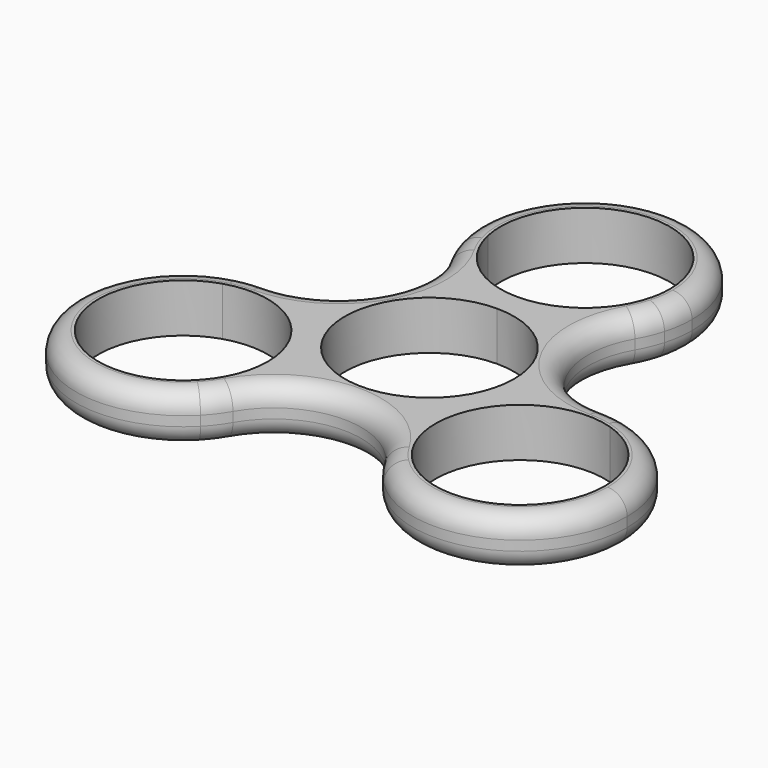
from build123d import *

# Parameters (mm, degrees)
F1_DEPTH = 6.35
F2_R     = 2.54


with BuildPart() as f1:
    # F0 (on Top) → F1 (new body)
    with BuildSketch(Plane.XY):
        with BuildLine():
            ThreePointArc((12.098375, 18.415), (6.985, 13.301625), (0, 11.43))
            ThreePointArc((0, 11.43), (-6.985, 13.301625), (-12.098375, 18.415))
            ThreePointArc((-12.098375, 18.415), (-12.098375, 6.985), (-21.997045, 1.27))
            ThreePointArc((-21.997045, 1.27), (-12.118764, -2.821718), (-8.027045, -12.7))
            ThreePointArc((-8.027045, -12.7), (-8.503061, -16.315702), (-9.89867, -19.685))
            ThreePointArc((-9.89867, -19.685), (0, -13.97), (9.89867, -19.685))
            ThreePointArc((9.89867, -19.685), (9.89867, -5.715), (21.997045, 1.27))
            ThreePointArc((21.997045, 1.27), (12.098375, 6.985), (12.098375, 18.415))
        make_face()
        with BuildLine():
            ThreePointArc((0, 11.049), (7.812823, 7.812823), (11.049, 0))
            ThreePointArc((11.049, 0), (-7.812823, -7.812823), (0, 11.049))
        make_face(mode=Mode.SUBTRACT)
        with BuildLine():
            ThreePointArc((-12.098375, 18.415), (-6.985, 13.301625), (0, 11.43))
            ThreePointArc((0, 11.43), (6.985, 13.301625), (12.098375, 18.415))
            ThreePointArc((12.098375, 18.415), (12.861262, 19.945749), (13.431376, 21.55825))
            ThreePointArc((13.431376, 21.55825), (12.12928, 22.316823), (10.78449, 22.996843))
            ThreePointArc((10.78449, 22.996843), (0, 14.351), (-10.78449, 22.996843))
            ThreePointArc((-10.78449, 22.996843), (-12.12928, 22.316823), (-13.431376, 21.55825))
            ThreePointArc((-13.431376, 21.55825), (-12.861262, 19.945749), (-12.098375, 18.415))
        make_face()
        with BuildLine():
            ThreePointArc((13.97, 25.4), (-1.939662, 39.234689), (-13.431376, 21.55825))
            ThreePointArc((-13.431376, 21.55825), (-12.12928, 22.316823), (-10.78449, 22.996843))
            ThreePointArc((-10.78449, 22.996843), (-1.208835, 36.382674), (11.049, 25.4))
            ThreePointArc((11.049, 25.4), (10.982674, 24.191165), (10.78449, 22.996843))
            ThreePointArc((10.78449, 22.996843), (12.12928, 22.316823), (13.431376, 21.55825))
            ThreePointArc((13.431376, 21.55825), (13.834689, 23.460338), (13.97, 25.4))
        make_face()
        with BuildLine():
            ThreePointArc((-8.027045, -12.7), (-12.118764, -2.821718), (-21.997045, 1.27))
            ThreePointArc((-21.997045, 1.27), (-23.704156, 1.165305), (-25.38568, 0.852788))
            ThreePointArc((-25.38568, 0.852788), (-25.391575, -0.654147), (-25.308095, -2.158779))
            ThreePointArc((-25.308095, -2.158779), (-15.458826, -3.793143), (-10.948045, -12.7))
            ThreePointArc((-10.948045, -12.7), (-11.881353, -17.144455), (-14.523605, -20.838064))
            ThreePointArc((-14.523605, -20.838064), (-13.262295, -21.662676), (-11.954304, -22.411038))
            ThreePointArc((-11.954304, -22.411038), (-10.842895, -21.111054), (-9.89867, -19.685))
            ThreePointArc((-9.89867, -19.685), (-8.503061, -16.315702), (-8.027045, -12.7))
        make_face()
        with BuildLine():
            ThreePointArc((25.38568, 0.852788), (23.704156, 1.165305), (21.997045, 1.27))
            ThreePointArc((21.997045, 1.27), (9.89867, -5.715), (9.89867, -19.685))
            ThreePointArc((9.89867, -19.685), (10.842895, -21.111054), (11.954304, -22.411038))
            ThreePointArc((11.954304, -22.411038), (13.262295, -21.662676), (14.523605, -20.838064))
            ThreePointArc((14.523605, -20.838064), (12.428331, -7.1755), (25.308095, -2.158779))
            ThreePointArc((25.308095, -2.158779), (25.391575, -0.654147), (25.38568, 0.852788))
        make_face()
        with BuildLine():
            ThreePointArc((-25.308095, -2.158779), (-25.391575, -0.654147), (-25.38568, 0.852788))
            ThreePointArc((-25.38568, 0.852788), (-34.09542, -19.685), (-11.954304, -22.411038))
            ThreePointArc((-11.954304, -22.411038), (-13.262295, -21.662676), (-14.523605, -20.838064))
            ThreePointArc((-14.523605, -20.838064), (-31.56576, -18.2245), (-25.308095, -2.158779))
        make_face()
        with BuildLine():
            ThreePointArc((35.967045, -12.7), (33.008406, -4.102859), (25.38568, 0.852788))
            ThreePointArc((25.38568, 0.852788), (25.391575, -0.654147), (25.308095, -2.158779))
            ThreePointArc((25.308095, -2.158779), (30.903902, -6.161781), (33.046045, -12.7))
            ThreePointArc((33.046045, -12.7), (26.4415, -22.815692), (14.523605, -20.838064))
            ThreePointArc((14.523605, -20.838064), (13.262295, -21.662676), (11.954304, -22.411038))
            ThreePointArc((11.954304, -22.411038), (27.234593, -25.651023), (35.967045, -12.7))
        make_face()
    extrude(amount=F1_DEPTH)

    # F2
    f2_edges = [f1.edges().sort_by_distance(p)[0] for p in [
        (-12.098375, 6.985, 6.35),
        (0, -13.97, 0),
    ]]
    fillet(f2_edges, radius=F2_R)


solid = f1.part
